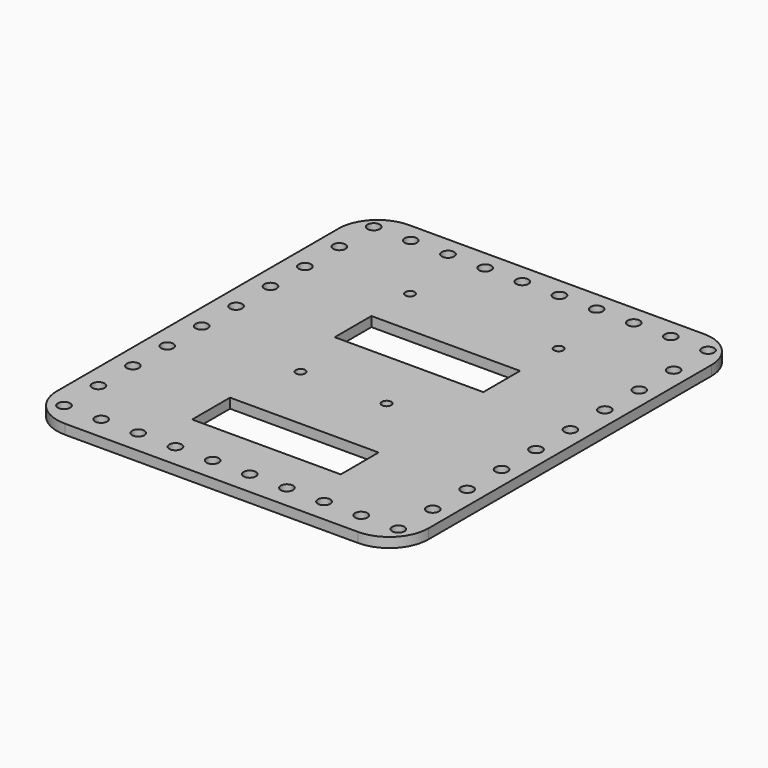
from build123d import *

# Parameters (mm, degrees)
F0_R     = 1.9939
F0_R_2   = 1.524
F0_W     = 48.26
F0_H     = 15.391365
F0_H_2   = 14.904542
F1_DEPTH = 3.175


with BuildPart() as f1:
    # F0 (on Top) → F1 (new body)
    with BuildSketch(Plane.XY):
        with BuildLine():
            Line((-395.704613, 19.42213), (-491.589613, 19.42213))
            ThreePointArc((-491.589613, 19.42213), (-500.569869, 15.702386), (-504.289613, 6.72213))
            Line((-504.289613, 6.72213), (-504.289613, -107.57787))
            ThreePointArc((-504.289613, -107.57787), (-500.569869, -116.558126), (-491.589613, -120.27787))
            Line((-491.589613, -120.27787), (-396.339613, -120.27787))
            ThreePointArc((-396.339613, -120.27787), (-387.359356, -116.558126), (-383.639613, -107.57787))
            Line((-383.639613, -107.57787), (-383.639613, 7.35713))
            ThreePointArc((-383.639613, 7.35713), (-387.173369, 15.888373), (-395.704613, 19.42213))
        make_face()
        with Locations((-497.939613, -112.65787)):
            Circle(F0_R, mode=Mode.SUBTRACT)
        with Locations((-485.874613, -112.65787)):
            Circle(F0_R, mode=Mode.SUBTRACT)
        with Locations((-497.939613, -98.68787)):
            Circle(F0_R, mode=Mode.SUBTRACT)
        with Locations((-473.809613, -112.65787)):
            Circle(F0_R, mode=Mode.SUBTRACT)
        with Locations((-461.744613, -112.65787)):
            Circle(F0_R, mode=Mode.SUBTRACT)
        with Locations((-449.679613, -112.65787)):
            Circle(F0_R, mode=Mode.SUBTRACT)
        with Locations((-497.939613, -84.71787)):
            Circle(F0_R, mode=Mode.SUBTRACT)
        with Locations((-497.939613, -70.74787)):
            Circle(F0_R, mode=Mode.SUBTRACT)
        with Locations((-497.939613, -56.77787)):
            Circle(F0_R, mode=Mode.SUBTRACT)
        with Locations((-462.697113, -60.680724)):
            Circle(F0_R_2, mode=Mode.SUBTRACT)
        with Locations((-437.614613, -112.65787)):
            Circle(F0_R, mode=Mode.SUBTRACT)
        with Locations((-425.549613, -112.65787)):
            Circle(F0_R, mode=Mode.SUBTRACT)
        with Locations((-443.647113, -90.65491)):
            Rectangle(F0_W, F0_H, mode=Mode.SUBTRACT)
        with Locations((-413.484613, -112.65787)):
            Circle(F0_R, mode=Mode.SUBTRACT)
        with Locations((-401.419613, -112.65787)):
            Circle(F0_R, mode=Mode.SUBTRACT)
        with Locations((-389.354613, -112.65787)):
            Circle(F0_R, mode=Mode.SUBTRACT)
        with Locations((-389.354613, -98.68787)):
            Circle(F0_R, mode=Mode.SUBTRACT)
        with Locations((-434.757113, -60.680724)):
            Circle(F0_R_2, mode=Mode.SUBTRACT)
        with Locations((-389.354613, -84.71787)):
            Circle(F0_R, mode=Mode.SUBTRACT)
        with Locations((-389.354613, -70.74787)):
            Circle(F0_R, mode=Mode.SUBTRACT)
        with Locations((-389.354613, -56.77787)):
            Circle(F0_R, mode=Mode.SUBTRACT)
        with Locations((-497.939613, -42.80787)):
            Circle(F0_R, mode=Mode.SUBTRACT)
        with Locations((-497.939613, -28.83787)):
            Circle(F0_R, mode=Mode.SUBTRACT)
        with Locations((-497.939613, -14.86787)):
            Circle(F0_R, mode=Mode.SUBTRACT)
        with Locations((-497.939613, -0.89787)):
            Circle(F0_R, mode=Mode.SUBTRACT)
        with Locations((-497.939613, 13.07213)):
            Circle(F0_R, mode=Mode.SUBTRACT)
        with Locations((-485.874613, 13.07213)):
            Circle(F0_R, mode=Mode.SUBTRACT)
        with Locations((-467.777113, -9.880724)):
            Circle(F0_R_2, mode=Mode.SUBTRACT)
        with Locations((-473.809613, 13.07213)):
            Circle(F0_R, mode=Mode.SUBTRACT)
        with Locations((-461.744613, 13.07213)):
            Circle(F0_R, mode=Mode.SUBTRACT)
        with Locations((-449.679613, 13.07213)):
            Circle(F0_R, mode=Mode.SUBTRACT)
        with Locations((-443.647113, -33.013412)):
            Rectangle(F0_W, F0_H_2, mode=Mode.SUBTRACT)
        with Locations((-389.354613, -42.80787)):
            Circle(F0_R, mode=Mode.SUBTRACT)
        with Locations((-389.354613, -28.83787)):
            Circle(F0_R, mode=Mode.SUBTRACT)
        with Locations((-419.517113, -9.880724)):
            Circle(F0_R_2, mode=Mode.SUBTRACT)
        with Locations((-437.614613, 13.07213)):
            Circle(F0_R, mode=Mode.SUBTRACT)
        with Locations((-425.549613, 13.07213)):
            Circle(F0_R, mode=Mode.SUBTRACT)
        with Locations((-389.354613, -14.86787)):
            Circle(F0_R, mode=Mode.SUBTRACT)
        with Locations((-389.354613, -0.89787)):
            Circle(F0_R, mode=Mode.SUBTRACT)
        with Locations((-413.484613, 13.07213)):
            Circle(F0_R, mode=Mode.SUBTRACT)
        with Locations((-401.419613, 13.07213)):
            Circle(F0_R, mode=Mode.SUBTRACT)
        with Locations((-389.354613, 13.07213)):
            Circle(F0_R, mode=Mode.SUBTRACT)
    extrude(amount=F1_DEPTH)


solid = f1.part
